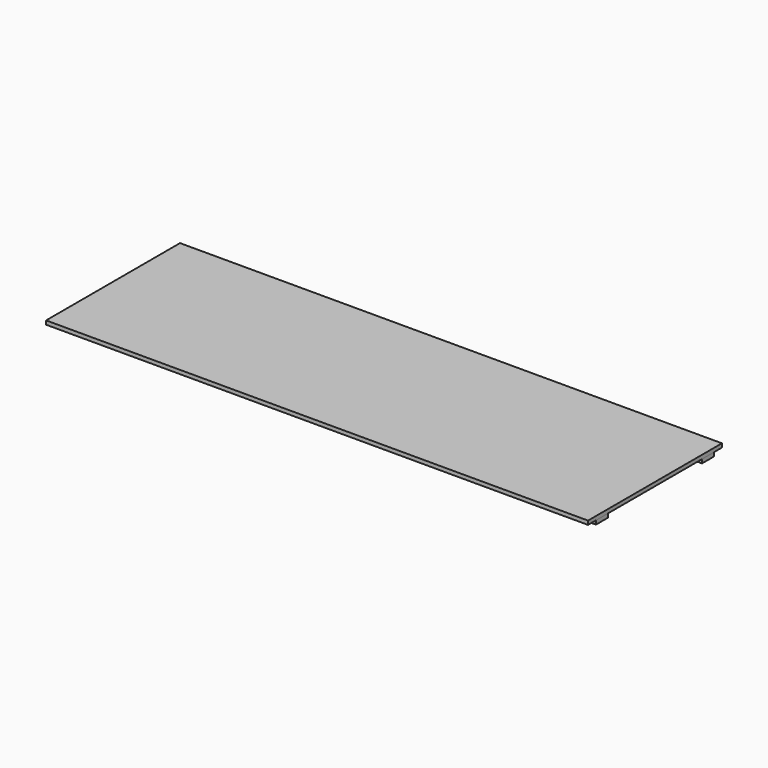
from build123d import *

# Parameters (mm, degrees)
F0_W     = 3270
F0_H     = 1010
F1_DEPTH = 23
F2_W     = 3270
F2_H     = 90
F3_DEPTH = 23


with BuildPart() as f1:
    # F0 (on Top) → F1 (new body)
    with BuildSketch(Plane.XY):
        with Locations((1635, 505)):
            Rectangle(F0_W, F0_H)
    extrude(amount=F1_DEPTH)


with BuildPart() as f3:
    # F2 (on face) → F3 (new body)
    with BuildSketch(Plane(origin=(0, 0, 0), x_dir=(1, 0, 0), z_dir=(0, 0, -1))):
        with Locations((1635, -105)):
            Rectangle(F2_W, F2_H)
        with Locations((1635, -905)):
            Rectangle(F2_W, F2_H)
    extrude(amount=F3_DEPTH)


solid = Compound([f1.part, f3.part])
